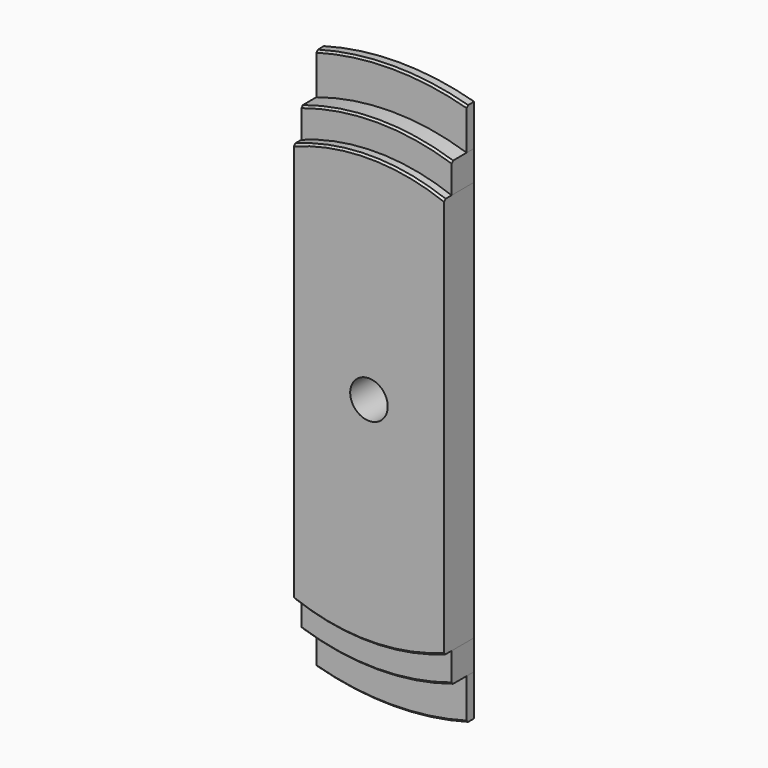
from build123d import *

# Parameters (mm, degrees)
F1_DEPTH  = 5
F2_DEPTH  = 15
F0_R      = 10
F3_DEPTH  = 20
F4_DEPTH  = 25
F5_SIZE   = 1
F5_2_SIZE = 1
F5_3_SIZE = 1
F5_4_SIZE = 1
F5_5_SIZE = 1


with BuildPart() as f1:
    # F0 (on Front) → F1 (new body)
    with BuildSketch(Plane.XZ):
        with BuildLine():
            Line((40, 122.6417547167), (40, 144.568322948))
            ThreePointArc((40, 144.568322948), (0, 150), (-40, 144.568322948))
            Line((-40, 144.568322948), (-40, 122.6417547167))
            ThreePointArc((-40, 122.6417547167), (0, 129), (40, 122.6417547167))
        make_face()
    extrude(amount=F1_DEPTH)

    # F0 (on Front) → F4 (cut)
    with BuildSketch(Plane.XZ):
        Circle(F0_R)
    extrude(amount=F4_DEPTH, mode=Mode.SUBTRACT)

    # F5
    f5_edges = [f1.edges().sort_by_distance(p)[0] for p in [
        (0, -5, 150),
    ]]
    chamfer(f5_edges, length=F5_SIZE)


with BuildPart() as f1b:
    # F0 (on Front) → F1, piece 2 (new body)
    with BuildSketch(Plane.XZ):
        with BuildLine():
            ThreePointArc((-40, -144.568322948), (0, -150), (40, -144.568322948))
            Line((40, -144.568322948), (40, -122.6417547167))
            ThreePointArc((40, -122.6417547167), (0, -129), (-40, -122.6417547167))
            Line((-40, -122.6417547167), (-40, -144.568322948))
        make_face()
    extrude(amount=F1_DEPTH)

    # F5#5
    f5_5_edges = [f1b.edges().sort_by_distance(p)[0] for p in [
        (0, -5, -150),
    ]]
    chamfer(f5_5_edges, length=F5_5_SIZE)


with BuildPart() as f2:
    # F0 (on Front) → F2 (new body)
    with BuildSketch(Plane.XZ):
        with BuildLine():
            ThreePointArc((-40, -122.6417547167), (0, -129), (40, -122.6417547167))
            Line((40, -122.6417547167), (40, -106.7520491607))
            ThreePointArc((40, -106.7520491607), (0, -114), (-40, -106.7520491607))
            Line((-40, -106.7520491607), (-40, -122.6417547167))
        make_face()
    extrude(amount=F2_DEPTH)

    # F5#4
    f5_4_edges = [f2.edges().sort_by_distance(p)[0] for p in [
        (0, -15, -129),
    ]]
    chamfer(f5_4_edges, length=F5_4_SIZE)


with BuildPart() as f2b:
    # F0 (on Front) → F2, piece 2 (new body)
    with BuildSketch(Plane.XZ):
        with BuildLine():
            Line((40, 106.7520491607), (40, 122.6417547167))
            ThreePointArc((40, 122.6417547167), (0, 129), (-40, 122.6417547167))
            Line((-40, 122.6417547167), (-40, 106.7520491607))
            ThreePointArc((-40, 106.7520491607), (0, 114), (40, 106.7520491607))
        make_face()
    extrude(amount=F2_DEPTH)

    # F5#2
    f5_2_edges = [f2b.edges().sort_by_distance(p)[0] for p in [
        (0, -15, 129),
    ]]
    chamfer(f5_2_edges, length=F5_2_SIZE)


with BuildPart() as f3:
    # F0 (on Front) → F3 (new body)
    with BuildSketch(Plane.XZ):
        with BuildLine():
            Line((40, -106.7520491607), (40, 106.7520491607))
            ThreePointArc((40, 106.7520491607), (0, 114), (-40, 106.7520491607))
            Line((-40, 106.7520491607), (-40, -106.7520491607))
            ThreePointArc((-40, -106.7520491607), (0, -114), (40, -106.7520491607))
        make_face()
        Circle(F0_R, mode=Mode.SUBTRACT)
    extrude(amount=F3_DEPTH)

    # F5#3
    f5_3_edges = [f3.edges().sort_by_distance(p)[0] for p in [
        (0, -20, 114),
        (0, -20, -114),
    ]]
    chamfer(f5_3_edges, length=F5_3_SIZE)


solid = Compound([f1.part, f1b.part, f2.part, f2b.part, f3.part])
